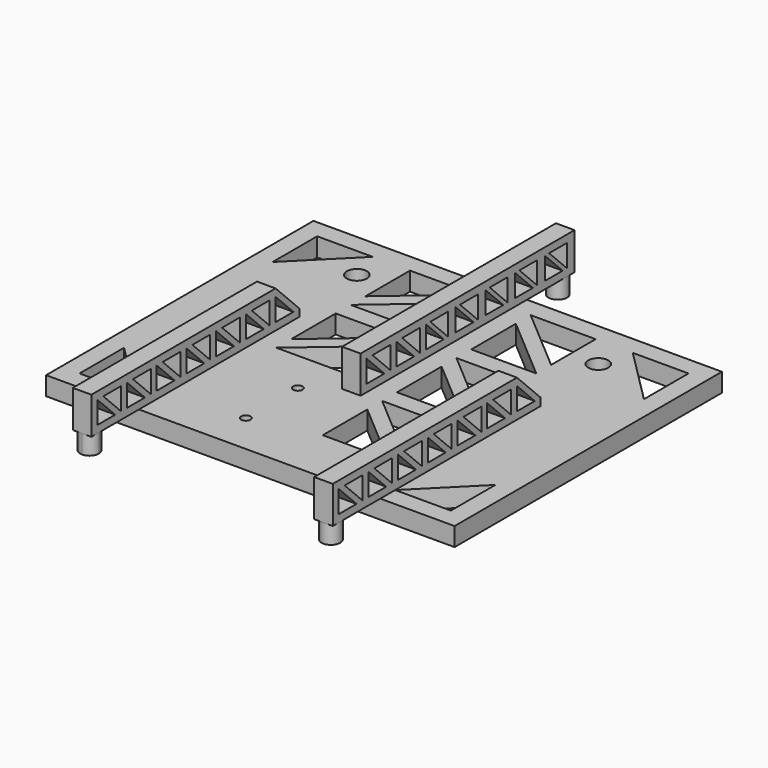
from build123d import *

# Parameters (mm, degrees)
F0_W      = 139.7
F0_H      = 114.3
F0_R      = 1.5875
F0_R_2    = 3.429
F1_DEPTH  = 6.35
F2_W      = 6.35
F2_H      = 20.32
F2_H_2    = 71.12
F3_DEPTH  = 12.7
F4_R      = 3.175
F5_DEPTH  = 6.35
F7_SIZE   = 10.16
F8_DEPTH  = 114.301
F10_DEPTH = 73.026


with BuildPart() as f1:
    # F0 (on Top) → F1 (new body)
    with BuildSketch(Plane.XY):
        Rectangle(F0_W, F0_H)
        Polygon((-44.45, -50.8), (-63.5, -50.8), (-63.5, -31.75), align=None, mode=Mode.SUBTRACT)
        with Locations((-12.7, -43.18)):
            Circle(F0_R, mode=Mode.SUBTRACT)
        with Locations((-12.7, -20.955)):
            Circle(F0_R, mode=Mode.SUBTRACT)
        Polygon((9.525, -19.05), (31.75, -38.1), (9.525, -38.1), align=None, mode=Mode.SUBTRACT)
        Polygon((63.5, -50.8), (44.45, -50.8), (63.5, -31.75), align=None, mode=Mode.SUBTRACT)
        Polygon((31.75, -12.7), (31.75, -31.75), (9.525, -12.7), align=None, mode=Mode.SUBTRACT)
        Polygon((-9.525, -6.35), (-31.75, -6.35), (-9.525, 12.7), align=None, mode=Mode.SUBTRACT)
        Polygon((-9.525, 19.05), (-31.75, 0), (-31.75, 19.05), align=None, mode=Mode.SUBTRACT)
        Polygon((-63.5, 31.75), (-63.5, 50.8), (-44.45, 50.8), align=None, mode=Mode.SUBTRACT)
        with Locations((-41.275, 40.005)):
            Circle(F0_R_2, mode=Mode.SUBTRACT)
        Polygon((-9.525, 25.4), (-31.75, 25.4), (-9.525, 44.45), align=None, mode=Mode.SUBTRACT)
        Polygon((-31.75, 31.75), (-31.75, 50.8), (-9.525, 50.8), align=None, mode=Mode.SUBTRACT)
        Polygon((9.525, 12.7), (31.75, -6.35), (9.525, -6.35), align=None, mode=Mode.SUBTRACT)
        Polygon((31.75, 19.05), (31.75, 0), (9.525, 19.05), align=None, mode=Mode.SUBTRACT)
        Polygon((9.525, 44.45), (31.75, 25.4), (9.525, 25.4), align=None, mode=Mode.SUBTRACT)
        Polygon((31.75, 50.8), (31.75, 31.75), (9.525, 50.8), align=None, mode=Mode.SUBTRACT)
        with Locations((41.275, 40.005)):
            Circle(F0_R_2, mode=Mode.SUBTRACT)
        Polygon((44.45, 50.8), (63.5, 50.8), (63.5, 31.75), align=None, mode=Mode.SUBTRACT)
    extrude(amount=F1_DEPTH)

    # F2 (on face) → F3 (join)
    with BuildSketch(Plane.XY.offset(6.35)):
        Polygon((-44.45, -57.15), (-38.1, -57.15), (-38.1, 11.43), (-44.45, 11.43), (-44.45, -50.8), align=None)
        with Locations((-41.275, -67.31)):
            Rectangle(F2_W, F2_H)
        with Locations((41.275, -67.31)):
            Rectangle(F2_W, F2_H)
        Polygon((38.1, 11.43), (38.1, -57.15), (44.45, -57.15), (44.45, -50.8), (44.45, 11.43), align=None)
        with Locations((0, 21.59)):
            Rectangle(F2_W, F2_H_2)
        with Locations((0, 67.31)):
            Rectangle(F2_W, F2_H)
    extrude(amount=F3_DEPTH)

    # F4 (on face) → F5 (join)
    with BuildSketch(Plane(origin=(0, 0, 6.35), x_dir=(1, 0, 0), z_dir=(0, 0, -1))):
        with BuildLine():
            ThreePointArc((-44.45, 74.295), (-41.275, 71.12), (-38.1, 74.295))
            ThreePointArc((-38.1, 74.295), (-39.0299359697, 76.5400640303), (-41.275, 77.47))
            ThreePointArc((-41.275, 77.47), (-43.5200640303, 76.5400640303), (-44.45, 74.295))
        make_face()
        with Locations((41.275, 74.295)):
            Circle(F4_R)
        with Locations((0, -74.295)):
            Circle(F4_R)
    extrude(amount=F5_DEPTH)

    # F7
    f7_edges = [f1.edges().sort_by_distance(p)[0] for p in [
        (41.275, 11.43, 19.05),
        (-41.275, 11.43, 19.05),
    ]]
    chamfer(f7_edges, length=F7_SIZE)

    # F6 (on face) → F8 (cut, through all)
    with BuildSketch(Plane.YZ.offset(44.45)):
        Polygon((-67.31, 8.89), (-74.93, 16.51), (-74.93, 8.89), align=None)
        Polygon((-64.77, 16.51), (-72.39, 16.51), (-64.77, 8.89), align=None)
        Polygon((-62.23, 8.89), (-54.61, 8.89), (-62.23, 16.51), align=None)
        Polygon((-59.69, 16.51), (-52.07, 8.89), (-52.07, 16.51), align=None)
        Polygon((-49.53, 8.89), (-41.91, 8.89), (-49.53, 16.51), align=None)
        Polygon((-46.99, 16.51), (-39.37, 8.89), (-39.37, 16.51), align=None)
        Polygon((-36.83, 8.89), (-29.21, 8.89), (-36.83, 16.51), align=None)
        Polygon((-34.29, 16.51), (-26.67, 8.89), (-26.67, 16.51), align=None)
        Polygon((-24.13, 8.89), (-16.51, 8.89), (-24.13, 16.51), align=None)
        Polygon((-21.59, 16.51), (-13.97, 8.89), (-13.97, 16.51), align=None)
        Polygon((-11.43, 8.89), (-3.81, 8.89), (-11.43, 16.51), align=None)
        Polygon((-8.89, 16.51), (-1.27, 8.89), (-1.27, 16.51), align=None)
        Polygon((8.89, 8.89), (1.27, 16.51), (1.27, 8.89), align=None)
    extrude(amount=-F8_DEPTH, mode=Mode.SUBTRACT)

    # F9 (on face) → F10 (cut, through all)
    with BuildSketch(Plane(origin=(-3.175, 0, 0), x_dir=(0, -1, 0), z_dir=(-1, 0, 0))):
        Polygon((-11.43, 8.89), (-3.81, 16.51), (-11.43, 16.51), align=None)
        Polygon((-13.97, 8.89), (-13.97, 16.51), (-21.59, 8.89), align=None)
        Polygon((-23.4296868545, 8.89), (-15.8096868545, 16.51), (-23.4296868545, 16.51), align=None)
        Polygon((-26.67, 16.51), (-34.29, 8.89), (-26.67, 8.89), align=None)
        Polygon((-28.5096868545, 16.51), (-36.1296868545, 16.51), (-36.1296868545, 8.89), align=None)
        Polygon((-39.37, 16.51), (-46.99, 8.89), (-39.37, 8.89), align=None)
        Polygon((-41.2096868545, 16.51), (-48.8296868545, 16.51), (-48.8296868545, 8.89), align=None)
        Polygon((-52.07, 16.51), (-59.69, 8.89), (-52.07, 8.89), align=None)
        Polygon((-53.9096868545, 16.51), (-61.5296868545, 16.51), (-61.5296868545, 8.89), align=None)
        Polygon((-64.77, 16.51), (-72.39, 8.89), (-64.77, 8.89), align=None)
        Polygon((-66.6096868545, 16.51), (-74.2296868545, 16.51), (-74.2296868545, 8.89), align=None)
    extrude(amount=-F10_DEPTH, mode=Mode.SUBTRACT)


solid = f1.part
